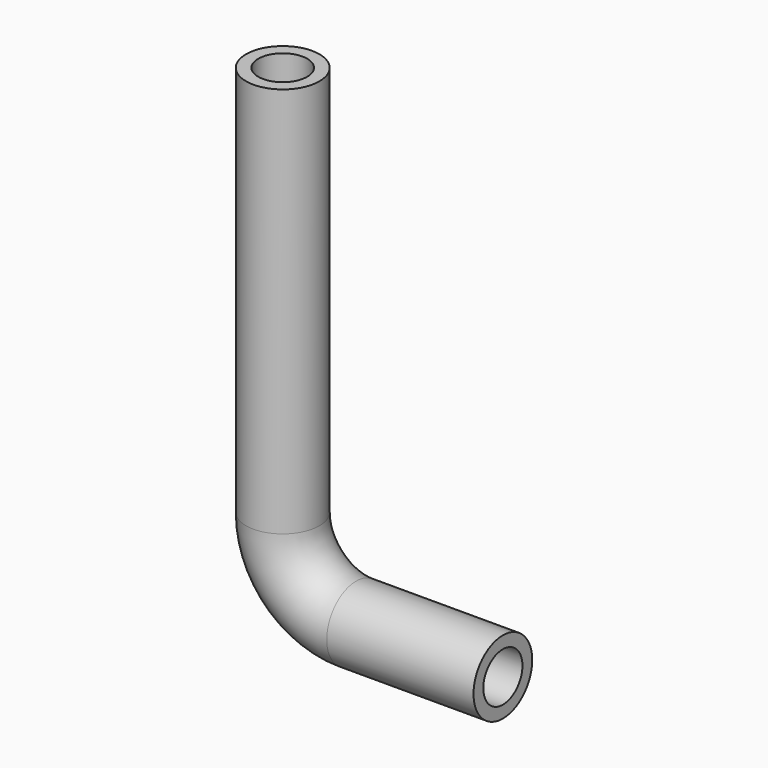
from build123d import *

# Parameters (mm, degrees)
F0_R     = 37.5
F3_R     = 25
F4_DEPTH = 350
F5_R     = 25
F6_DEPTH = 100


with BuildPart() as f2:
    # F2: sweep along a path in F1
    with BuildLine(Plane.XZ) as f2_path:
        Line((0, 0), (-150, 0))
        ThreePointArc((-150, 0), (-203.033008589, 21.966991411), (-225, 75))
        Line((-225, 75), (-225, 475))
    # F0 (on Right) → F2 (sweep)
    with BuildSketch(Plane.YZ):
        Circle(F0_R)
    sweep(path=f2_path.line)

    # F3 (on face) → F4 (cut)
    with BuildSketch(Plane.XY.offset(475)):
        with Locations((-225, 0)):
            Circle(F3_R)
    extrude(amount=-F4_DEPTH, mode=Mode.SUBTRACT)

    # F5 (on face) → F6 (cut)
    with BuildSketch(Plane.YZ):
        Circle(F5_R)
    extrude(amount=-F6_DEPTH, mode=Mode.SUBTRACT)


solid = f2.part
